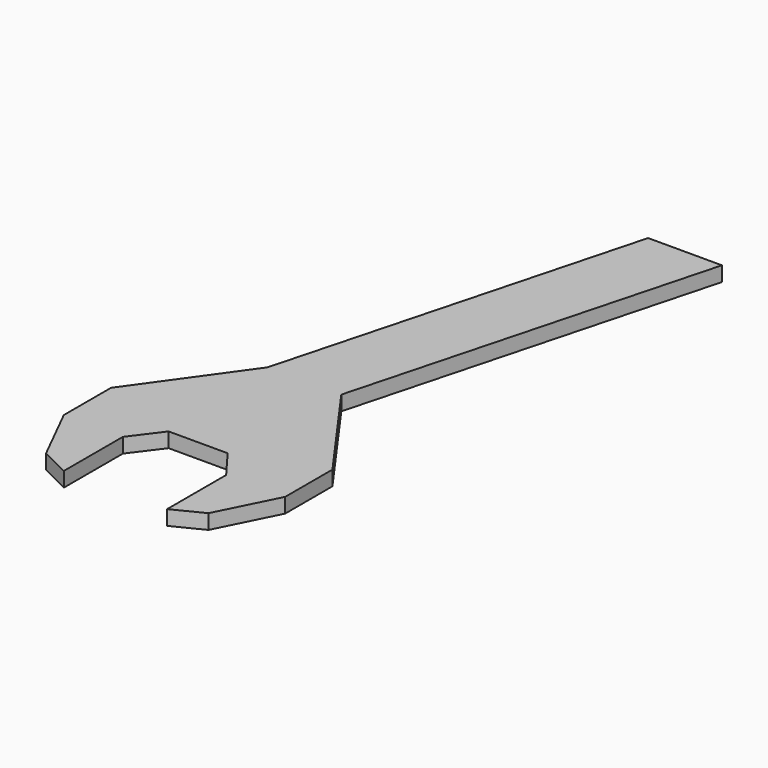
from build123d import *

# Parameters (mm, degrees)
F1_DEPTH = 10


with BuildPart() as f1:
    # F0 (on Top) → F1 (new body)
    with BuildSketch(Plane.XY):
        Polygon((-35, -20), (-20, 0), (20, 0), (35, -20), (35, -70), (55, -60), (75, -20), (75, 20), (25, 90), (89.704761, 331.481457), (39.704761, 331.481457), (-25, 90), (-75, 20), (-75, -20), (-55, -60), (-35, -70), align=None)
    extrude(amount=F1_DEPTH)


solid = f1.part
